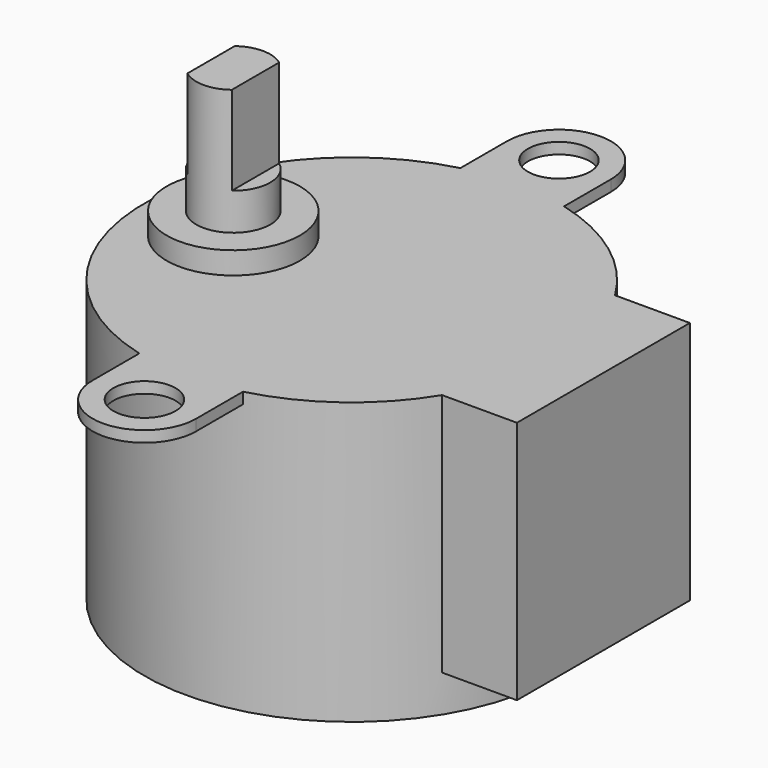
from build123d import *

# Parameters (mm, degrees)
BOX001_W          = 17
BOX001_H          = 14.6
BOX001_DEPTH      = 16.5
CYLINDER005_R     = 2.1
CYLINDER005_DEPTH = 2
CYLINDER004_R     = 2.1
CYLINDER004_DEPTH = 2
CYLINDER007_R     = 3.5
CYLINDER007_DEPTH = 0.75
BOX_W             = 7
BOX_H             = 35
BOX_DEPTH         = 0.75
CYLINDER006_R     = 3.5
CYLINDER006_DEPTH = 0.75
CYLINDER001_R     = 4.5
CYLINDER001_DEPTH = 1.5
CYLINDER_R        = 14
CYLINDER_DEPTH    = 19
BOX003_W          = 1
BOX003_H          = 5
BOX003_DEPTH      = 6
BOX002_W          = 1
BOX002_H          = 5
BOX002_DEPTH      = 6
CYLINDER003_R     = 2.5
CYLINDER003_DEPTH = 8.5


with BuildPart() as cube001:
    # Box001 → Box001 (new body)
    with BuildSketch(Plane(origin=(0, -7.3, 2.5), x_dir=(1, 0, 0), z_dir=(0, 0, 1))):
        with Locations((8.5, 7.3)):
            Rectangle(BOX001_W, BOX001_H)
    extrude(amount=BOX001_DEPTH)


with BuildPart() as cylinder005:
    # Cylinder005 → Cylinder005 (new body)
    with BuildSketch(Plane(origin=(0, 17.5, 18), x_dir=(1, 0, 0), z_dir=(0, 0, 1))):
        Circle(CYLINDER005_R)
    extrude(amount=CYLINDER005_DEPTH)


with BuildPart() as cylinder004:
    # Cylinder004 → Cylinder004 (new body)
    with BuildSketch(Plane(origin=(0, -17.5, 18), x_dir=(1, 0, 0), z_dir=(0, 0, 1))):
        Circle(CYLINDER004_R)
    extrude(amount=CYLINDER004_DEPTH)


with BuildPart() as cylinder007:
    # Cylinder007 → Cylinder007 (new body)
    with BuildSketch(Plane(origin=(0, 17.5, 18), x_dir=(1, 0, 0), z_dir=(0, 0, 1))):
        Circle(CYLINDER007_R)
    extrude(amount=CYLINDER007_DEPTH)


with BuildPart() as cube:
    # Box → Box (new body)
    with BuildSketch(Plane(origin=(-3.5, -17.5, 18), x_dir=(1, 0, 0), z_dir=(0, 0, 1))):
        with Locations((3.5, 17.5)):
            Rectangle(BOX_W, BOX_H)
    extrude(amount=BOX_DEPTH)


with BuildPart() as cut001:
    # Cylinder006 → Cylinder006 (new body)
    with BuildSketch(Plane(origin=(0, -17.5, 18), x_dir=(1, 0, 0), z_dir=(0, 0, 1))):
        Circle(CYLINDER006_R)
    extrude(amount=CYLINDER006_DEPTH)

    # Fusion: union Cylinder007, Cube
    add(cylinder007.part)
    add(cube.part)


with BuildPart() as cut001_1:
    # Fusion placement: moved
    add(cut001.part.moved(Location((0, 0, 0.25))))

    # Cut: cut Cylinder004
    add(cylinder004.part, mode=Mode.SUBTRACT)

    # Cut001: cut Cylinder005
    add(cylinder005.part, mode=Mode.SUBTRACT)


with BuildPart() as cylinder001:
    # Cylinder001 → Cylinder001 (new body)
    with BuildSketch(Plane(origin=(-8, 0, 19), x_dir=(1, 0, 0), z_dir=(0, 0, 1))):
        Circle(CYLINDER001_R)
    extrude(amount=CYLINDER001_DEPTH)


with BuildPart() as cylinder:
    # Cylinder → Cylinder (new body)
    with BuildSketch(Plane.XY):
        Circle(CYLINDER_R)
    extrude(amount=CYLINDER_DEPTH)


with BuildPart() as cube003:
    # Box003 → Box003 (new body)
    with BuildSketch(Plane(origin=(-10.5, -2.5, 23), x_dir=(1, 0, 0), z_dir=(0, 0, 1))):
        with Locations((0.5, 2.5)):
            Rectangle(BOX003_W, BOX003_H)
    extrude(amount=BOX003_DEPTH)


with BuildPart() as cube002:
    # Box002 → Box002 (new body)
    with BuildSketch(Plane(origin=(-6.5, -2.5, 23), x_dir=(1, 0, 0), z_dir=(0, 0, 1))):
        with Locations((0.5, 2.5)):
            Rectangle(BOX002_W, BOX002_H)
    extrude(amount=BOX002_DEPTH)


with BuildPart() as motor:
    # Cylinder003 → Cylinder003 (new body)
    with BuildSketch(Plane(origin=(-8, 0, 20.5), x_dir=(1, 0, 0), z_dir=(0, 0, 1))):
        Circle(CYLINDER003_R)
    extrude(amount=CYLINDER003_DEPTH)

    # Cut002: cut Cube002
    add(cube002.part, mode=Mode.SUBTRACT)

    # Cut003: cut Cube003
    add(cube003.part, mode=Mode.SUBTRACT)

    # Fusion001: union Cube001, Cut001, Cylinder001, Cylinder
    add(cube001.part)
    add(cut001_1.part)
    add(cylinder001.part)
    add(cylinder.part)


with BuildPart() as motor_1:
    # Fusion001 placement: moved
    add(motor.part.moved(Location((8, 0, -10))))


solid = motor_1.part
